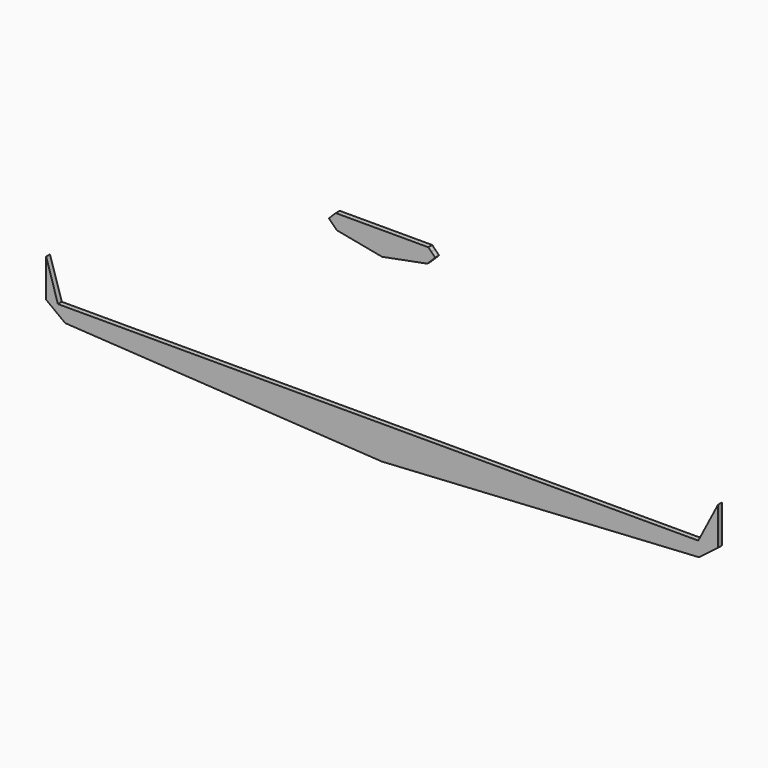
from build123d import *

# Parameters (mm, degrees)
F0_W     = 18.1247375776
F0_H     = 4.0092900416
F1_DEPTH = 0.79375


with BuildPart() as f1:
    # F0 (on Front) → F1 (new body, symmetric)
    with BuildSketch(Plane.XZ):
        Polygon((-102.7933955193, -17.0055255294), (0, -23.1307987124), (102.7933955193, -17.0055255294), (108.9904382825, -12.3218977824), (102.5896382825, -12.3218977824), (0, -12.3218977824), (-105.1422506571, -12.3218977824), (-108.9904382825, -12.3218977824), align=None)
        with Locations((-40.4761875325, -17.7724484958)):
            Rectangle(F0_W, F0_H, mode=Mode.SUBTRACT)
        with Locations((40.4761875325, -17.7724484958)):
            Rectangle(F0_W, F0_H, mode=Mode.SUBTRACT)
        with Locations((-40.4761875325, -17.7724484958)):
            Rectangle(F0_W, F0_H)
        with Locations((40.4761875325, -17.7724484958)):
            Rectangle(F0_W, F0_H)
        Polygon((102.5896382825, -12.3218977824), (108.9904382825, -12.3218977824), (108.9904382825, 0), align=None)
        Polygon((-108.9904382825, 0), (-108.9904382825, -12.3218977824), (-105.1422506571, -12.3218977824), align=None)
    extrude(amount=F1_DEPTH, both=True)


with BuildPart() as f1b:
    # F0 (on Front) → F1, piece 2 (new body, symmetric)
    with BuildSketch(Plane.XZ):
        Polygon((-14.6814454347, 38.17024827), (0, 35.3670269251), (14.6814454347, 38.17024827), (17.2510668635, 40.7398715615), (15.9662561491, 42.0246813446), (0, 40.7398715615), (-15.9662561491, 42.0246813446), (-17.2510668635, 40.7398715615), align=None)
        Polygon((-15.0142441659, 42.9766926378), (-15.9662561491, 42.0246813446), (0, 40.7398715615), (15.9662561491, 42.0246813446), (15.0142441659, 42.9766926378), (0, 42.9766926378), align=None)
    extrude(amount=F1_DEPTH, both=True)


solid = Compound([f1.part, f1b.part])
